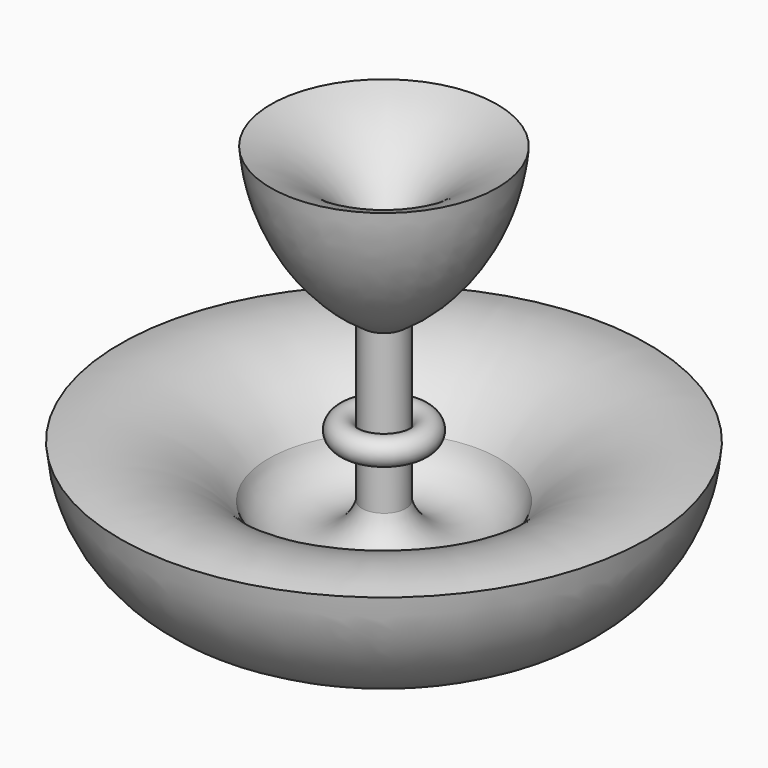
from build123d import *


with BuildPart() as f1:
    # F0 (on Front) → F1 (revolve)
    with BuildSketch(Plane.XZ):
        with BuildLine():
            Line((0, 74.300274), (0, 0))
            Line((0, 0), (79.594292, 0))
            ThreePointArc((79.594292, 0), (149.755115, 27.667996), (182.146025, 95.777379))
            ThreePointArc((182.146025, 95.777379), (125.251589, 93.55431), (79.594292, 59.534755))
            ThreePointArc((79.594292, 59.534755), (47.196038, 35.551084), (15.06463, 59.89109))
            Line((15.06463, 59.89109), (15.06463, 102.482421))
            ThreePointArc((15.06463, 102.482421), (32.949084, 102.791309), (15.06463, 103.100197))
            Line((15.06463, 103.100197), (15.06463, 169.370487))
            ThreePointArc((15.06463, 169.370487), (58.770762, 214.989319), (78.101695, 275.135964))
            ThreePointArc((78.101695, 275.135964), (41.674795, 255.612066), (15.06463, 223.989278))
            Line((15.06463, 223.989278), (6.916821, 223.989278))
            Line((6.916821, 223.989278), (6.916821, 153.997421))
            Line((6.916821, 153.997421), (0, 153.997421))
            Line((0, 153.997421), (0, 74.300274))
        make_face()
    revolve(axis=Axis((0, 0, 37.150137), (0, 0, -1)))


solid = f1.part
